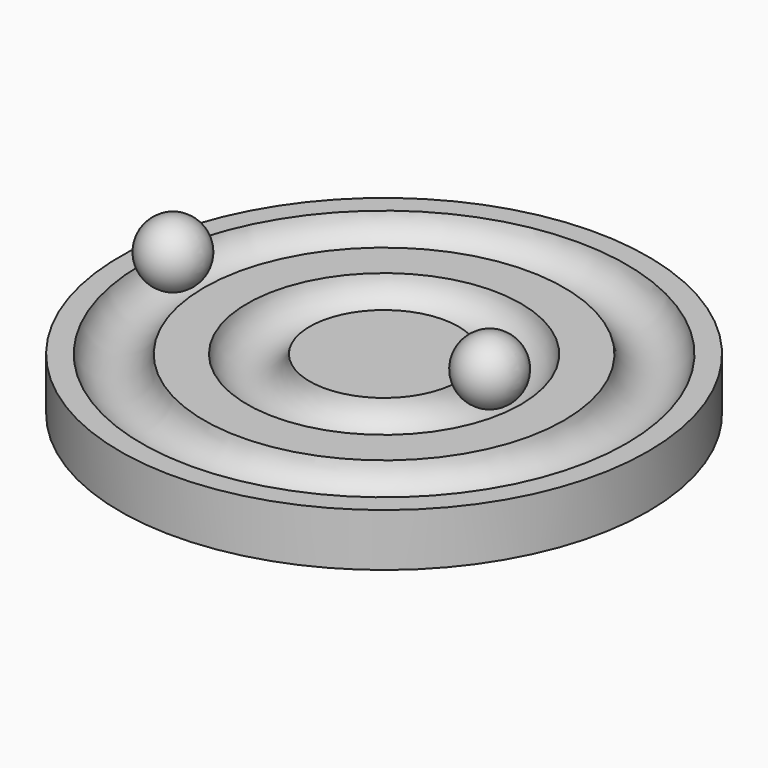
from build123d import *

# Parameters (mm, degrees)
TORUS001_R     = 6
TORUS_R        = 6
CYLINDER_R     = 50
CYLINDER_DEPTH = 10


with BuildPart() as torus001:
    # Torus001 → Torus001 (revolve)
    with BuildSketch(Plane(origin=(0, 0, 11), x_dir=(1, 0, 0), z_dir=(0, -1, 0))):
        with Locations((20, 0)):
            Circle(TORUS001_R)
    revolve(axis=Axis((0, 0, 11), (0, 0, 1)))


with BuildPart() as torus:
    # Torus → Torus (revolve)
    with BuildSketch(Plane(origin=(0, 0, 11), x_dir=(1, 0, 0), z_dir=(0, -1, 0))):
        with Locations((40, 0)):
            Circle(TORUS_R)
    revolve(axis=Axis((0, 0, 11), (0, 0, 1)))


with BuildPart() as cut001:
    # Cylinder → Cylinder (new body)
    with BuildSketch(Plane.XY):
        Circle(CYLINDER_R)
    extrude(amount=CYLINDER_DEPTH)

    # Cut: cut Torus
    add(torus.part, mode=Mode.SUBTRACT)

    # Cut001: cut Torus001
    add(torus001.part, mode=Mode.SUBTRACT)


with BuildPart() as sphere:
    # Sphere → Sphere (revolve)
    with BuildSketch(Plane(origin=(20, 0, 14), x_dir=(1, 0, 0), z_dir=(0, -1, 0))):
        with BuildLine():
            ThreePointArc((0, -6), (6, 0), (0, 6))
            Line((0, 6), (0, -6))
        make_face()
    revolve(axis=Axis((20, 0, 14), (0, 0, 1)))


with BuildPart() as sphere001:
    # Sphere001 → Sphere001 (revolve)
    with BuildSketch(Plane(origin=(-40, 0, 14), x_dir=(1, 0, 0), z_dir=(0, -1, 0))):
        with BuildLine():
            ThreePointArc((0, -6), (6, 0), (0, 6))
            Line((0, 6), (0, -6))
        make_face()
    revolve(axis=Axis((-40, 0, 14), (0, 0, 1)))


solid = Compound([cut001.part, sphere.part, sphere001.part])
